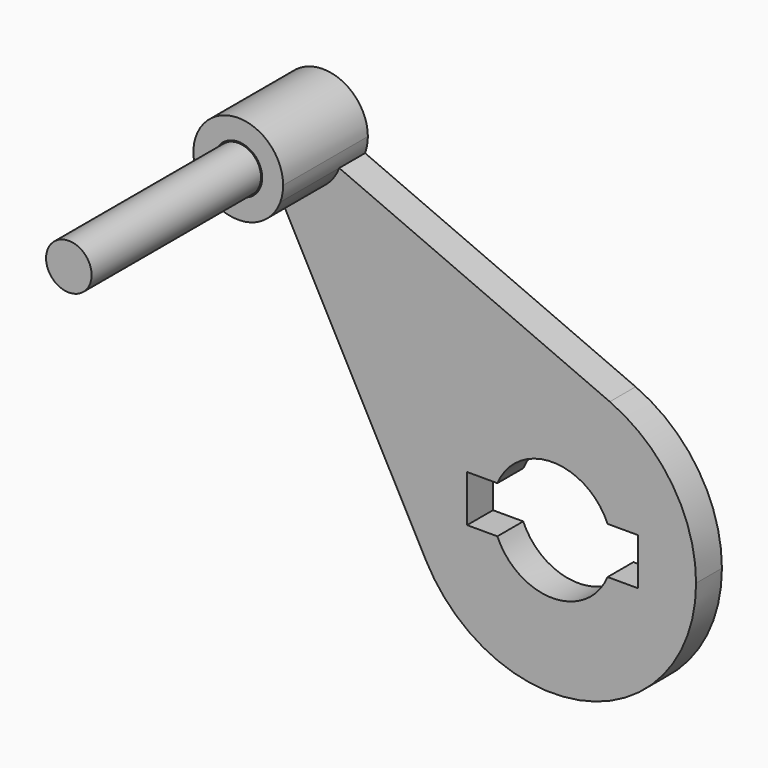
from build123d import *

# Parameters (mm, degrees)
F0_R     = 33.890494
F1_DEPTH = 22.86
F2_DEPTH = 127
F3_R     = 32.248305
F4_DEPTH = 299.72


with BuildPart() as f1:
    # F0 (on Front) → F1 (new body, symmetric)
    with BuildSketch(Plane.XZ):
        with BuildLine():
            ThreePointArc((-180.945197, 215.957069), (-227.028764, 175.844782), (-285.61664, 193.169662))
            Line((-285.61664, 193.169662), (-58.443356, -232.639542))
            ThreePointArc((-58.443356, -232.639542), (-28.450369, 0.861151), (201.925635, 49.328142))
            Line((201.925635, 49.328142), (-180.945197, 215.957069))
        make_face()
        with BuildLine():
            ThreePointArc((201.925635, 49.328142), (-28.450369, 0.861151), (-58.443356, -232.639542))
            ThreePointArc((-58.443356, -232.639542), (170.134403, -334.12099), (324.037641, -136.991415))
            ThreePointArc((324.037641, -136.991415), (290.789576, -25.606587), (201.925635, 49.328142))
        make_face()
        with BuildLine():
            Line((42.847402, -170.087546), (0, -170.087546))
            Line((0, -170.087546), (0, -103.895283))
            Line((0, -103.895283), (42.847402, -103.895283))
            ThreePointArc((42.847402, -103.895283), (120.837641, -52.269332), (198.82788, -103.895283))
            Line((198.82788, -103.895283), (241.675282, -103.895283))
            Line((241.675282, -103.895283), (241.675282, -170.087546))
            Line((241.675282, -170.087546), (198.82788, -170.087546))
            ThreePointArc((198.82788, -170.087546), (120.837641, -221.713497), (42.847402, -170.087546))
        make_face(mode=Mode.SUBTRACT)
        with BuildLine():
            ThreePointArc((-180.945197, 215.957069), (-178.021371, 226.751495), (-177.036581, 237.89145))
            ThreePointArc((-177.036581, 237.89145), (-264.719904, 296.606157), (-285.61664, 193.169662))
            ThreePointArc((-285.61664, 193.169662), (-227.028764, 175.844782), (-180.945197, 215.957069))
        make_face()
        with Locations((-240.536581, 237.89145)):
            Circle(F0_R, mode=Mode.SUBTRACT)
    extrude(amount=F1_DEPTH, both=True)

    # F0 (on Front) → F2 (join)
    with BuildSketch(Plane.XZ):
        with BuildLine():
            ThreePointArc((-180.945197, 215.957069), (-178.021371, 226.751495), (-177.036581, 237.89145))
            ThreePointArc((-177.036581, 237.89145), (-264.719904, 296.606157), (-285.61664, 193.169662))
            ThreePointArc((-285.61664, 193.169662), (-227.028764, 175.844782), (-180.945197, 215.957069))
        make_face()
        with Locations((-240.536581, 237.89145)):
            Circle(F0_R, mode=Mode.SUBTRACT)
    extrude(amount=F2_DEPTH)


with BuildPart() as f4:
    # F3 (on face) → F4 (new body)
    with BuildSketch(Plane.XZ.offset(127)):
        with Locations((-240.536581, 237.89145)):
            Circle(F3_R)
    extrude(amount=F4_DEPTH)


solid = Compound([f1.part, f4.part])
